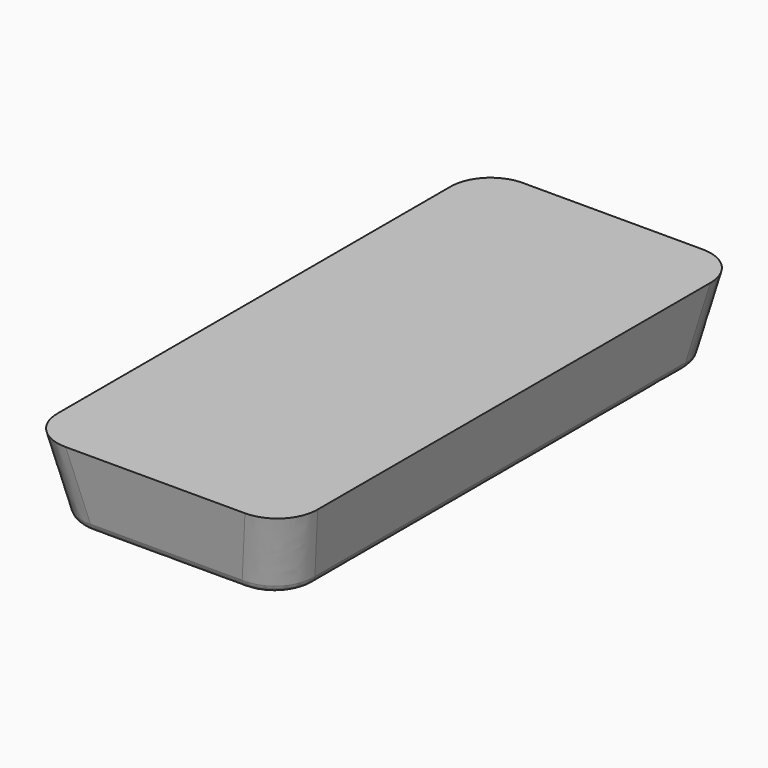
from build123d import *

# Parameters (mm, degrees)
SKETCH001_W = 44.5
SKETCH001_H = 105
SKETCH_W    = 50.5
SKETCH_H    = 111
FILLET_R    = 8
FILLET001_R = 2


with BuildPart() as part:
    # Sketch001 → AdditiveLoft section 0
    with BuildSketch(Plane.XY):
        with Locations((25.25, 55.5)):
            Rectangle(SKETCH001_W, SKETCH001_H)
    # Sketch → AdditiveLoft section 1
    with BuildSketch(Plane.XY.offset(15)):
        with Locations((25.25, 55.5)):
            Rectangle(SKETCH_W, SKETCH_H)
    loft()

    # Fillet
    fillet_edges = [part.edges().sort_by_distance(p)[0] for p in [
        (1.5, 1.5, 7.5),
        (49, 1.5, 7.5),
        (49, 109.5, 7.5),
        (1.5, 109.5, 7.5),
    ]]
    fillet(fillet_edges, radius=FILLET_R)

    # Fillet001
    fillet001_edges = [part.edges().sort_by_distance(p)[0] for p in [
        (25.25, 108, 0),
        (5.279656, 105.720344, 0),
        (3, 55.5, 0),
        (5.279656, 5.279656, 0),
        (25.25, 3, 0),
        (45.220344, 5.279656, 0),
        (47.5, 55.5, 0),
        (45.220344, 105.720344, 0),
    ]]
    fillet(fillet001_edges, radius=FILLET001_R)


solid = part.part
